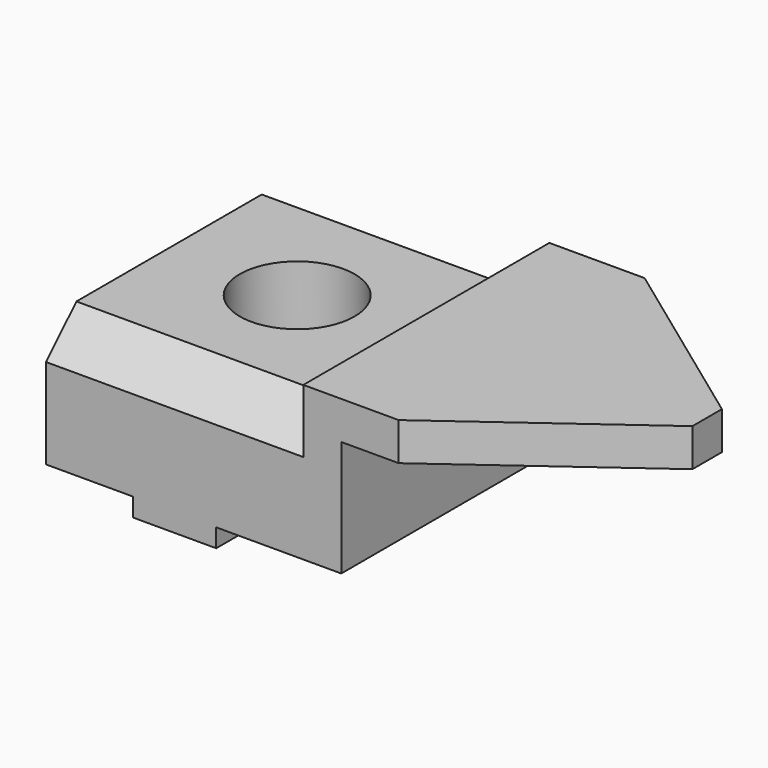
from build123d import *

# Parameters (mm, degrees)
F0_W     = 20.574
F0_H     = 38.1
F1_DEPTH = 4.572
F0_W_2   = 21.59
F0_W_3   = 30.988
F2_DEPTH = 38.1
F4_W     = 9.398
F4_H     = 38.1
F5_DEPTH = 9.398
F6_DEPTH = 63.754
F8_R     = 14.224
F9_DEPTH = 36.322


with BuildPart() as f1:
    # F0 (on Top) → F1 (new body)
    with BuildSketch(Plane.XY):
        with Locations((-21.029786, 8.555287)):
            Rectangle(F0_W, F0_H)
    extrude(amount=-F1_DEPTH)

    # F0 (on Top) → F2 (join)
    with BuildSketch(Plane.XY):
        with Locations((-42.111786, 8.555287)):
            Rectangle(F0_W_2, F0_H)
        with Locations((4.751214, 8.555287)):
            Rectangle(F0_W_3, F0_H)
        with Locations((-21.029786, 8.555287)):
            Rectangle(F0_W, F0_H)
    extrude(amount=F2_DEPTH)

    # F4 (on face) → F5 (join)
    with BuildSketch(Plane.XY.offset(38.1)):
        Polygon((20.245214, 27.605287), (20.245214, -10.494713), (34.469214, -10.494713), (80.443214, 23.033287), (80.443214, 27.605287), align=None)
        with Locations((15.546214, 8.555287)):
            Rectangle(F4_W, F4_H)
    extrude(amount=-F5_DEPTH)

    # F3 (on face) → F6 (cut)
    with BuildSketch(Plane(origin=(-52.906786, 0, 0), x_dir=(0, -1, 0), z_dir=(-1, 0, 0))):
        Polygon((-27.605287, 38.1), (-27.605287, 31.75), (1.096713, 31.75), (10.494713, 22.352), (10.494713, 38.1), align=None)
    extrude(amount=-F6_DEPTH, mode=Mode.SUBTRACT)

    # F7: F1 across face


with BuildPart() as f1_1:
    add(f1.part)
    add(f1.part.mirror(Plane(origin=(-3.450989, 27.605287, 18.946514), x_dir=(-1, 0, 0), z_dir=(0, 1, 0))))

    # F8 (on face) → F9 (cut, through all)
    with BuildSketch(Plane.XY.offset(31.75)):
        with Locations((-21.156786, 27.605287)):
            Circle(F8_R)
    extrude(amount=-F9_DEPTH, mode=Mode.SUBTRACT)


solid = f1_1.part
